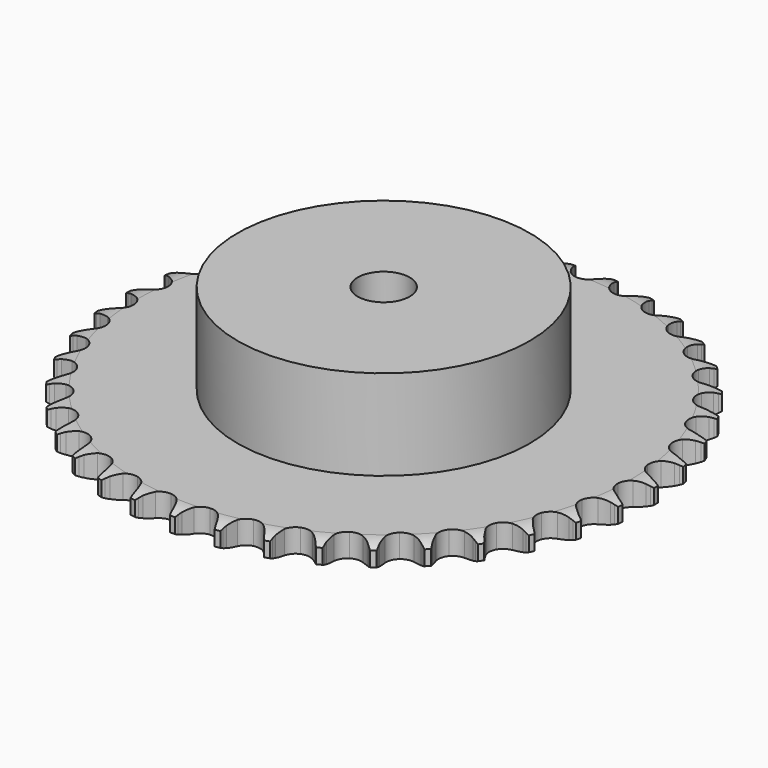
from build123d import *

# Parameters (mm, degrees)
PAD_DEPTH         = 7.2
SKETCH001_R       = 45
PAD001_DEPTH      = 35
SKETCH002_R       = 8
POCKET_DEPTH      = 0.001
POCKET_DEPTH_BACK = 35.001


with BuildPart() as part:
    # Sprocket → Pad (new body)
    with BuildSketch(Plane.XY):
        with BuildLine():
            ThreePointArc((-6.656622, 82.457062), (-5.929777, 81.440918), (-5.398329, 80.310249))
            Line((-5.398329, 80.310249), (-4.983377, 79.168588))
            ThreePointArc((-4.983377, 79.168588), (-4.32707, 77.702452), (-3.466416, 76.346144))
            ThreePointArc((-3.466416, 76.346144), (-1.9406, 75.061463), (0, 74.600386))
            ThreePointArc((0, 74.600386), (1.9406, 75.061463), (3.466416, 76.346144))
            ThreePointArc((3.466416, 76.346144), (4.32707, 77.702452), (4.983377, 79.168588))
            Line((4.983377, 79.168588), (5.398329, 80.310249))
            ThreePointArc((5.398329, 80.310249), (5.929777, 81.440918), (6.656622, 82.457062))
            ThreePointArc((6.656622, 82.457062), (7.211054, 81.337483), (7.554248, 80.136205))
            Line((7.554248, 80.136205), (7.780691, 78.942766))
            ThreePointArc((7.780691, 78.942766), (8.193314, 77.390336), (8.825256, 75.913534))
            ThreePointArc((8.825256, 75.913534), (10.125235, 74.400731), (11.966743, 73.63433))
            ThreePointArc((11.966743, 73.63433), (13.956175, 73.778143), (15.66831, 74.80143))
            Line((15.66831, 74.80143), (17.618378, 77.343986))
            ThreePointArc((17.618378, 77.343986), (17.900249, 77.88224), (18.211092, 78.404299))
            ThreePointArc((18.211092, 78.404299), (18.91703, 79.435077), (19.797464, 80.321468))
            ThreePointArc((19.797464, 80.321468), (20.165122, 79.12745), (20.311173, 77.886676))
            Line((20.311173, 77.886676), (20.343243, 76.672367))
            ThreePointArc((20.343243, 76.672367), (20.501496, 75.073852), (20.888358, 73.514803))
            ThreePointArc((20.888358, 73.514803), (21.928833, 71.813059), (23.623554, 70.761184))
            ThreePointArc((23.623554, 70.761184), (25.610293, 70.584007), (27.464403, 71.319397))
            Line((27.464403, 71.319397), (29.797073, 73.516215))
            ThreePointArc((29.797073, 73.516215), (30.161635, 74.002284), (30.552197, 74.467719))
            ThreePointArc((30.552197, 74.467719), (31.414342, 75.371908), (32.425561, 76.105589))
            ThreePointArc((32.425561, 76.105589), (32.596925, 74.868057), (32.54205, 73.619922))
            Line((32.54205, 73.619922), (32.378916, 72.416194))
            ThreePointArc((32.378916, 72.416194), (32.2787, 70.812994), (32.410463, 69.212078))
            ThreePointArc((32.410463, 69.212078), (33.164485, 67.365467), (34.668528, 66.055361))
            ThreePointArc((34.668528, 66.055361), (36.601117, 65.561783), (38.549182, 65.99023))
            Line((38.549182, 65.99023), (41.204039, 67.784413))
            ThreePointArc((41.204039, 67.784413), (41.641851, 68.205707), (42.102016, 68.602465))
            ThreePointArc((42.102016, 68.602465), (43.098039, 69.356647), (44.213854, 69.918616))
            ThreePointArc((44.213854, 69.918616), (44.184484, 68.669621), (43.930105, 67.446452))
            Line((43.930105, 67.446452), (43.575992, 66.28448))
            ThreePointArc((43.575992, 66.28448), (43.219902, 64.718117), (43.093154, 63.116796))
            ThreePointArc((43.093154, 63.116796), (43.541194, 61.173144), (44.815605, 59.638738))
            ThreePointArc((44.815605, 59.638738), (46.643992, 58.841543), (48.635557, 58.95195))
            Line((48.635557, 58.95195), (51.543842, 60.29703))
            ThreePointArc((51.543842, 60.29703), (52.043565, 60.642638), (52.561416, 60.960443))
            ThreePointArc((52.561416, 60.960443), (53.665519, 61.545085), (54.857031, 61.920787))
            ThreePointArc((54.857031, 61.920787), (54.627688, 60.692678), (54.180394, 59.526153))
            Line((54.180394, 59.526153), (53.644473, 58.436033))
            ThreePointArc((53.644473, 58.436033), (53.041732, 56.947074), (52.659755, 55.386822))
            ThreePointArc((52.659755, 55.386822), (52.79021, 53.396469), (53.801981, 51.677504))
            ThreePointArc((53.801981, 51.677504), (55.478812, 50.597338), (57.462297, 50.386846))
            Line((57.462297, 50.386846), (60.548686, 51.247985))
            ThreePointArc((60.548686, 51.247985), (61.097378, 51.508957), (61.659502, 51.739577))
            ThreePointArc((61.659502, 51.739577), (62.843091, 52.139538), (64.079439, 52.319243))
            ThreePointArc((64.079439, 52.319243), (63.656064, 51.143826), (63.027438, 50.064159))
            Line((63.027438, 50.064159), (62.32359, 49.074123))
            ThreePointArc((62.32359, 49.074123), (61.489808, 47.701133), (60.862496, 46.222358))
            ThreePointArc((60.862496, 46.222358), (60.671986, 44.236854), (61.394914, 42.377849))
            ThreePointArc((61.394914, 42.377849), (62.87676, 41.042688), (64.800794, 40.516748))
            Line((64.800794, 40.516748), (67.985352, 40.871645))
            ThreePointArc((67.985352, 40.871645), (68.568801, 41.041221), (69.160639, 41.178683))
            ThreePointArc((69.160639, 41.178683), (70.393059, 41.383604), (71.642224, 41.362657))
            ThreePointArc((71.642224, 41.362657), (71.035782, 40.270376), (70.242105, 39.305529))
            Line((70.242105, 39.305529), (69.388559, 38.441219))
            ThreePointArc((69.388559, 38.441219), (68.345331, 37.219757), (67.48893, 35.86076))
            ThreePointArc((67.48893, 35.86076), (66.98239, 33.931527), (67.397751, 31.98063))
            ThreePointArc((67.397751, 31.98063), (68.646232, 30.425055), (70.460984, 29.597289))
            Line((70.460984, 29.597289), (73.661232, 29.436751))
            ThreePointArc((73.661232, 29.436751), (74.264328, 29.510539), (74.870553, 29.551283))
            ThreePointArc((74.870553, 29.551283), (76.119885, 29.555856), (77.349513, 29.334801))
            ThreePointArc((77.349513, 29.334801), (76.575709, 28.353944), (75.637539, 27.528907))
            Line((75.637539, 27.528907), (74.6564, 26.812708))
            ThreePointArc((74.6564, 26.812708), (73.430746, 25.774408), (72.367437, 24.570386))
            ThreePointArc((72.367437, 24.570386), (71.557986, 22.747392), (71.655021, 20.75513))
            ThreePointArc((71.655021, 20.75513), (72.637804, 19.019428), (74.296272, 17.911275))
            Line((74.296272, 17.911275), (77.429325, 17.23946))
            ThreePointArc((77.429325, 17.23946), (78.036447, 17.215549), (78.641358, 17.158521))
            ThreePointArc((78.641358, 17.158521), (79.875245, 16.962627), (81.05349, 16.547188))
            ThreePointArc((81.05349, 16.547188), (80.132367, 15.703161), (79.074, 15.0393))
            Line((79.074, 15.0393), (77.99068, 14.489762))
            ThreePointArc((77.99068, 14.489762), (76.614343, 13.661517), (75.371665, 12.643653))
            ThreePointArc((75.371665, 12.643653), (74.280267, 10.974111), (74.056465, 8.992083))
            ThreePointArc((74.056465, 8.992083), (74.748094, 7.121208), (76.207325, 5.761368))
            Line((76.207325, 5.761368), (79.19204, 4.595676))
            ThreePointArc((79.19204, 4.595676), (79.787464, 4.474686), (80.375393, 4.321362))
            ThreePointArc((80.375393, 4.321362), (81.561878, 3.930075), (82.658224, 3.331013))
            ThreePointArc((82.658224, 3.331013), (81.613638, 2.645673), (80.462486, 2.160183))
            Line((80.462486, 2.160183), (79.305043, 1.791538))
            ThreePointArc((79.305043, 1.791538), (77.813669, 1.194799), (76.423806, 0.389456))
            ThreePointArc((76.423806, 0.389456), (75.078728, -1.083394), (74.539884, -3.003855))
            ThreePointArc((74.539884, -3.003855), (74.922448, -4.961447), (76.144649, -6.537754))
            Line((76.144649, -6.537754), (78.903722, -8.167133))
            ThreePointArc((78.903722, -8.167133), (79.472028, -8.382069), (80.027748, -8.627719))
            ThreePointArc((80.027748, -8.627719), (81.136102, -9.204264), (82.122154, -9.971435))
            ThreePointArc((82.122154, -9.971435), (80.981158, -10.480336), (79.767035, -10.774881))
            Line((79.767035, -10.774881), (78.565446, -10.953085))
            ThreePointArc((78.565446, -10.953085), (76.997661, -11.302864), (75.496611, -11.874828))
            ThreePointArc((75.496611, -11.874828), (73.93269, -13.112839), (73.09276, -14.921994))
            ThreePointArc((73.09276, -14.921994), (73.15635, -16.915603), (74.109866, -18.667553))
            Line((74.109866, -18.667553), (76.571839, -20.718418))
            ThreePointArc((76.571839, -20.718418), (77.098307, -21.021734), (77.607426, -21.353346))
            ThreePointArc((77.607426, -21.353346), (78.608943, -22.100217), (79.459163, -23.015627))
            ThreePointArc((79.459163, -23.015627), (78.25131, -23.334909), (77.005661, -23.430881))
            Line((77.005661, -23.430881), (75.791046, -23.41403))
            ThreePointArc((75.791046, -23.41403), (74.187455, -23.507788), (72.614093, -23.83156))
            ThreePointArc((72.614093, -23.83156), (70.871833, -24.802669), (69.752572, -26.453661))
            ThreePointArc((69.752572, -26.453661), (69.495541, -28.431654), (70.155677, -30.313872))
            Line((70.155677, -30.313872), (72.256786, -32.733107))
            ThreePointArc((72.256786, -32.733107), (72.727781, -33.116946), (73.177113, -33.525932))
            ThreePointArc((73.177113, -33.525932), (74.045853, -34.423786), (74.738222, -35.463727))
            ThreePointArc((74.738222, -35.463727), (73.494793, -35.585121), (72.24988, -35.480034))
            Line((72.24988, -35.480034), (71.053697, -35.268563))
            ThreePointArc((71.053697, -35.268563), (69.455832, -35.103873), (67.850909, -35.171068))
            ThreePointArc((67.850909, -35.171068), (65.975434, -35.850122), (64.605829, -37.300193))
            ThreePointArc((64.605829, -37.300193), (64.034834, -39.211341), (64.384492, -41.175077))
            Line((64.384492, -41.175077), (66.07032, -43.900025))
            ThreePointArc((66.07032, -43.900025), (66.473644, -44.354447), (66.851551, -44.830214))
            ThreePointArc((66.851551, -44.830214), (67.565016, -45.855797), (68.081599, -46.993335))
            ThreePointArc((68.081599, -46.993335), (66.8348, -46.913697), (65.622865, -46.610273))
            Line((65.622865, -46.610273), (64.476095, -46.209659))
            ThreePointArc((64.476095, -46.209659), (62.92534, -45.790786), (61.330421, -45.599663))
            ThreePointArc((61.330421, -45.599663), (59.370305, -45.969077), (57.785829, -47.180669))
            ThreePointArc((57.785829, -47.180669), (56.915658, -48.975474), (56.945783, -50.969869))
            Line((56.945783, -50.969869), (58.172667, -53.929956))
            ThreePointArc((58.172667, -53.929956), (58.497874, -54.443191), (58.794569, -54.973418))
            ThreePointArc((58.794569, -54.973418), (59.334279, -56.100167), (59.661699, -57.30584))
            ThreePointArc((59.661699, -57.30584), (58.44382, -57.027233), (57.296253, -56.53333))
            Line((57.296253, -56.53333), (56.228596, -55.953949))
            ThreePointArc((56.228596, -55.953949), (54.765115, -55.291742), (53.221508, -54.84725))
            ThreePointArc((53.221508, -54.84725), (51.227517, -54.897456), (49.469206, -55.83919))
            ThreePointArc((49.469206, -55.83919), (48.322397, -57.471168), (48.032208, -59.444569))
            Line((48.032208, -59.444569), (48.768373, -62.56313))
            ThreePointArc((48.768373, -62.56313), (49.00704, -63.121884), (49.214838, -63.692839))
            ThreePointArc((49.214838, -63.692839), (49.566816, -64.891573), (49.696593, -66.134154))
            ThreePointArc((49.696593, -66.134154), (48.539177, -65.663793), (47.485698, -64.992203))
            Line((47.485698, -64.992203), (46.524806, -64.249061))
            ThreePointArc((46.524806, -64.249061), (45.186502, -63.360671), (43.734186, -62.674323))
            ThreePointArc((43.734186, -62.674323), (41.757963, -62.40402), (39.871357, -63.051506))
            ThreePointArc((39.871357, -63.051506), (38.477611, -64.478389), (37.874624, -66.379685))
            Line((37.874624, -66.379685), (38.101004, -69.575951))
            ThreePointArc((38.101004, -69.575951), (38.246949, -70.165755), (38.360469, -70.762648))
            ThreePointArc((38.360469, -70.762648), (38.515599, -72.00232), (38.444371, -73.249628))
            ThreePointArc((38.444371, -73.249628), (37.377394, -72.599696), (36.445288, -71.767813))
            Line((36.445288, -71.767813), (35.616048, -70.880156))
            ThreePointArc((35.616048, -70.880156), (34.437582, -69.788591), (33.114171, -68.878164))
            ThreePointArc((33.114171, -68.878164), (31.206899, -68.294352), (29.24086, -68.630821))
            ThreePointArc((29.24086, -68.630821), (27.636275, -69.815653), (26.736108, -71.595603))
            Line((26.736108, -71.595603), (26.446839, -74.786791))
            ThreePointArc((26.446839, -74.786791), (26.496283, -75.392369), (26.512584, -75.999743))
            ThreePointArc((26.512584, -75.999743), (26.466847, -77.248246), (26.196459, -78.467976))
            ThreePointArc((26.196459, -78.467976), (25.247556, -77.655305), (24.460964, -76.684674))
            Line((24.460964, -76.684674), (23.784853, -75.675493))
            ThreePointArc((23.784853, -75.675493), (22.796747, -74.409024), (21.636517, -73.298096))
            ThreePointArc((21.636517, -73.298096), (19.847594, -72.415897), (17.853041, -72.432634))
            ThreePointArc((17.853041, -72.432634), (16.079174, -73.344729), (14.90514, -74.957232))
            Line((14.90514, -74.957232), (14.107714, -78.060693))
            ThreePointArc((14.107714, -78.060693), (14.059376, -78.66636), (13.978037, -79.268483))
            ThreePointArc((13.978037, -79.268483), (13.732619, -80.493482), (13.270074, -81.654044))
            ThreePointArc((13.270074, -81.654044), (12.46382, -80.699682), (11.843114, -79.615442))
            Line((11.843114, -79.615442), (11.337642, -78.510874))
            ThreePointArc((11.337642, -78.510874), (10.565489, -77.102302), (9.598488, -75.819647))
            ThreePointArc((9.598488, -75.819647), (7.974246, -74.661908), (6.002837, -74.358479))
            ThreePointArc((6.002837, -74.358479), (4.105631, -74.974215), (2.688136, -76.377508))
            Line((2.688136, -76.377508), (1.403207, -79.312864))
            ThreePointArc((1.403207, -79.312864), (1.25834, -79.902934), (1.081466, -80.484212))
            ThreePointArc((1.081466, -80.484212), (0.642722, -81.653979), (0, -82.725315))
            ThreePointArc((0, -82.725315), (-0.642722, -81.653979), (-1.081466, -80.484212))
            Line((-1.081466, -80.484212), (-1.403207, -79.312864))
            ThreePointArc((-1.403207, -79.312864), (-1.939411, -77.798671), (-2.688136, -76.377508))
            ThreePointArc((-2.688136, -76.377508), (-4.105631, -74.974215), (-6.002837, -74.358479))
            ThreePointArc((-6.002837, -74.358479), (-7.974246, -74.661908), (-9.598488, -75.819647))
            Line((-9.598488, -75.819647), (-11.337642, -78.510874))
            ThreePointArc((-11.337642, -78.510874), (-11.575287, -79.070064), (-11.843114, -79.615442))
            ThreePointArc((-11.843114, -79.615442), (-12.46382, -80.699682), (-13.270074, -81.654044))
            ThreePointArc((-13.270074, -81.654044), (-13.732619, -80.493482), (-13.978037, -79.268483))
            Line((-13.978037, -79.268483), (-14.107714, -78.060693))
            ThreePointArc((-14.107714, -78.060693), (-14.39408, -76.480096), (-14.90514, -74.957232))
            ThreePointArc((-14.90514, -74.957232), (-16.079174, -73.344729), (-17.853041, -72.432634))
            ThreePointArc((-17.853041, -72.432634), (-19.847594, -72.415897), (-21.636517, -73.298096))
            Line((-21.636517, -73.298096), (-23.784853, -75.675493))
            ThreePointArc((-23.784853, -75.675493), (-24.109121, -76.18932), (-24.460964, -76.684674))
            ThreePointArc((-24.460964, -76.684674), (-25.247556, -77.655305), (-26.196459, -78.467976))
            ThreePointArc((-26.196459, -78.467976), (-26.466847, -77.248246), (-26.512584, -75.999743))
            Line((-26.512584, -75.999743), (-26.446839, -74.786791))
            ThreePointArc((-26.446839, -74.786791), (-26.475951, -73.180725), (-26.736108, -71.595603))
            ThreePointArc((-26.736108, -71.595603), (-27.636275, -69.815653), (-29.24086, -68.630821))
            ThreePointArc((-29.24086, -68.630821), (-31.206899, -68.294352), (-33.114171, -68.878164))
            Line((-33.114171, -68.878164), (-35.616048, -70.880156))
            ThreePointArc((-35.616048, -70.880156), (-36.01854, -71.335314), (-36.445288, -71.767813))
            ThreePointArc((-36.445288, -71.767813), (-37.377394, -72.599696), (-38.444371, -73.249628))
            ThreePointArc((-38.444371, -73.249628), (-38.515599, -72.00232), (-38.360469, -70.762648))
            Line((-38.360469, -70.762648), (-38.101004, -69.575951))
            ThreePointArc((-38.101004, -69.575951), (-37.872108, -67.986013), (-37.874624, -66.379685))
            ThreePointArc((-37.874624, -66.379685), (-38.477611, -64.478389), (-39.871357, -63.051506))
            ThreePointArc((-39.871357, -63.051506), (-41.757963, -62.40402), (-43.734186, -62.674323))
            Line((-43.734186, -62.674323), (-46.524806, -64.249061))
            ThreePointArc((-46.524806, -64.249061), (-46.995099, -64.63376), (-47.485698, -64.992203))
            ThreePointArc((-47.485698, -64.992203), (-48.539177, -65.663793), (-49.696593, -66.134154))
            ThreePointArc((-49.696593, -66.134154), (-49.566816, -64.891573), (-49.214838, -63.692839))
            Line((-49.214838, -63.692839), (-48.768373, -62.56313))
            ThreePointArc((-48.768373, -62.56313), (-48.287398, -61.030499), (-48.032208, -59.444569))
            ThreePointArc((-48.032208, -59.444569), (-48.322397, -57.471168), (-49.469206, -55.83919))
            ThreePointArc((-49.469206, -55.83919), (-51.227517, -54.897456), (-53.221508, -54.84725))
            Line((-53.221508, -54.84725), (-56.228596, -55.953949))
            ThreePointArc((-56.228596, -55.953949), (-56.754509, -56.258226), (-57.296253, -56.53333))
            ThreePointArc((-57.296253, -56.53333), (-58.44382, -57.027233), (-59.661699, -57.30584))
            ThreePointArc((-59.661699, -57.30584), (-59.334279, -56.100167), (-58.794569, -54.973418))
            Line((-58.794569, -54.973418), (-58.172667, -53.929956))
            ThreePointArc((-58.172667, -53.929956), (-57.452069, -52.494326), (-56.945783, -50.969869))
            ThreePointArc((-56.945783, -50.969869), (-56.915658, -48.975474), (-57.785829, -47.180669))
            ThreePointArc((-57.785829, -47.180669), (-59.370305, -45.969077), (-61.330421, -45.599663))
            Line((-61.330421, -45.599663), (-64.476095, -46.209659))
            ThreePointArc((-64.476095, -46.209659), (-65.044007, -46.425633), (-65.622865, -46.610273))
            ThreePointArc((-65.622865, -46.610273), (-66.8348, -46.913697), (-68.081599, -46.993335))
            ThreePointArc((-68.081599, -46.993335), (-67.565016, -45.855797), (-66.851551, -44.830214))
            Line((-66.851551, -44.830214), (-66.07032, -43.900025))
            ThreePointArc((-66.07032, -43.900025), (-65.128762, -42.598579), (-64.384492, -41.175077))
            ThreePointArc((-64.384492, -41.175077), (-64.034834, -39.211341), (-64.605829, -37.300193))
            ThreePointArc((-64.605829, -37.300193), (-65.975434, -35.850122), (-67.850909, -35.171068))
            Line((-67.850909, -35.171068), (-71.053697, -35.268563))
            ThreePointArc((-71.053697, -35.268563), (-71.648899, -35.390641), (-72.24988, -35.480034))
            ThreePointArc((-72.24988, -35.480034), (-73.494793, -35.585121), (-74.738222, -35.463727))
            ThreePointArc((-74.738222, -35.463727), (-74.045853, -34.423786), (-73.177113, -33.525932))
            Line((-73.177113, -33.525932), (-72.256786, -32.733107))
            ThreePointArc((-72.256786, -32.733107), (-71.118654, -31.59955), (-70.155677, -30.313872))
            ThreePointArc((-70.155677, -30.313872), (-69.495541, -28.431654), (-69.752572, -26.453661))
            ThreePointArc((-69.752572, -26.453661), (-70.871833, -24.802669), (-72.614093, -23.83156))
            Line((-72.614093, -23.83156), (-75.791046, -23.41403))
            ThreePointArc((-75.791046, -23.41403), (-76.398123, -23.43905), (-77.005661, -23.430881))
            ThreePointArc((-77.005661, -23.430881), (-78.25131, -23.334909), (-79.459163, -23.015627))
            ThreePointArc((-79.459163, -23.015627), (-78.608943, -22.100217), (-77.607426, -21.353346))
            Line((-77.607426, -21.353346), (-76.571839, -20.718418))
            ThreePointArc((-76.571839, -20.718418), (-75.266611, -19.78211), (-74.109866, -18.667553))
            ThreePointArc((-74.109866, -18.667553), (-73.15635, -16.915603), (-73.09276, -14.921994))
            ThreePointArc((-73.09276, -14.921994), (-73.93269, -13.112839), (-75.496611, -11.874828))
            Line((-75.496611, -11.874828), (-78.565446, -10.953085))
            ThreePointArc((-78.565446, -10.953085), (-79.168675, -10.880399), (-79.767035, -10.774881))
            ThreePointArc((-79.767035, -10.774881), (-80.981158, -10.480336), (-82.122154, -9.971435))
            ThreePointArc((-82.122154, -9.971435), (-81.136102, -9.204264), (-80.027748, -8.627719))
            Line((-80.027748, -8.627719), (-78.903722, -8.167133))
            ThreePointArc((-78.903722, -8.167133), (-77.465201, -7.452323), (-76.144649, -6.537754))
            ThreePointArc((-76.144649, -6.537754), (-74.922448, -4.961447), (-74.539884, -3.003855))
            ThreePointArc((-74.539884, -3.003855), (-75.078728, -1.083394), (-76.423806, 0.389456))
            Line((-76.423806, 0.389456), (-79.305043, 1.791538))
            ThreePointArc((-79.305043, 1.791538), (-79.888801, 1.960048), (-80.462486, 2.160183))
            ThreePointArc((-80.462486, 2.160183), (-81.613638, 2.645673), (-82.658224, 3.331013))
            ThreePointArc((-82.658224, 3.331013), (-81.561878, 3.930075), (-80.375393, 4.321362))
            Line((-80.375393, 4.321362), (-79.19204, 4.595676))
            ThreePointArc((-79.19204, 4.595676), (-77.657484, 5.070475), (-76.207325, 5.761368))
            ThreePointArc((-76.207325, 5.761368), (-74.748094, 7.121208), (-74.056465, 8.992083))
            ThreePointArc((-74.056465, 8.992083), (-74.280267, 10.974111), (-75.371665, 12.643653))
            Line((-75.371665, 12.643653), (-77.99068, 14.489762))
            ThreePointArc((-77.99068, 14.489762), (-78.539848, 14.74973), (-79.074, 15.0393))
            ThreePointArc((-79.074, 15.0393), (-80.132367, 15.703161), (-81.05349, 16.547188))
            ThreePointArc((-81.05349, 16.547188), (-79.875245, 16.962627), (-78.641358, 17.158521))
            Line((-78.641358, 17.158521), (-77.429325, 17.23946))
            ThreePointArc((-77.429325, 17.23946), (-75.838479, 17.46195), (-74.296272, 17.911275))
            ThreePointArc((-74.296272, 17.911275), (-72.637804, 19.019428), (-71.655021, 20.75513))
            ThreePointArc((-71.655021, 20.75513), (-71.557986, 22.747392), (-72.367437, 24.570386))
            Line((-72.367437, 24.570386), (-74.6564, 26.812708))
            ThreePointArc((-74.6564, 26.812708), (-75.156754, 27.157403), (-75.637539, 27.528907))
            ThreePointArc((-75.637539, 27.528907), (-76.575709, 28.353944), (-77.349513, 29.334801))
            ThreePointArc((-77.349513, 29.334801), (-76.119885, 29.555856), (-74.870553, 29.551283))
            Line((-74.870553, 29.551283), (-73.661232, 29.436751))
            ThreePointArc((-73.661232, 29.436751), (-72.055297, 29.40117), (-70.460984, 29.597289))
            ThreePointArc((-70.460984, 29.597289), (-68.646232, 30.425055), (-67.397751, 31.98063))
            ThreePointArc((-67.397751, 31.98063), (-66.98239, 33.931527), (-67.48893, 35.86076))
            Line((-67.48893, 35.86076), (-69.388559, 38.441219))
            ThreePointArc((-69.388559, 38.441219), (-69.82714, 38.861713), (-70.242105, 39.305529))
            ThreePointArc((-70.242105, 39.305529), (-71.035782, 40.270376), (-71.642224, 41.362657))
            ThreePointArc((-71.642224, 41.362657), (-70.393059, 41.383604), (-69.160639, 41.178683))
            Line((-69.160639, 41.178683), (-67.985352, 40.871645))
            ThreePointArc((-67.985352, 40.871645), (-66.40592, 40.578915), (-64.800794, 40.516748))
            ThreePointArc((-64.800794, 40.516748), (-62.87676, 41.042688), (-61.394914, 42.377849))
            ThreePointArc((-61.394914, 42.377849), (-60.671986, 44.236854), (-60.862496, 46.222358))
            Line((-60.862496, 46.222358), (-62.32359, 49.074123))
            ThreePointArc((-62.32359, 49.074123), (-62.68904, 49.559525), (-63.027438, 50.064159))
            ThreePointArc((-63.027438, 50.064159), (-63.656064, 51.143826), (-64.079439, 52.319243))
            ThreePointArc((-64.079439, 52.319243), (-62.843091, 52.139538), (-61.659502, 51.739577))
            Line((-61.659502, 51.739577), (-60.548686, 51.247985))
            ThreePointArc((-60.548686, 51.247985), (-59.036665, 50.705687), (-57.462297, 50.386846))
            ThreePointArc((-57.462297, 50.386846), (-55.478812, 50.597338), (-53.801981, 51.677504))
            ThreePointArc((-53.801981, 51.677504), (-52.79021, 53.396469), (-52.659755, 55.386822))
            Line((-52.659755, 55.386822), (-53.644473, 58.436033))
            ThreePointArc((-53.644473, 58.436033), (-53.927327, 58.973771), (-54.180394, 59.526153))
            ThreePointArc((-54.180394, 59.526153), (-54.627688, 60.692678), (-54.857031, 61.920787))
            ThreePointArc((-54.857031, 61.920787), (-53.665519, 61.545085), (-52.561416, 60.960443))
            Line((-52.561416, 60.960443), (-51.543842, 60.29703))
            ThreePointArc((-51.543842, 60.29703), (-50.138392, 59.519209), (-48.635557, 58.95195))
            ThreePointArc((-48.635557, 58.95195), (-46.643992, 58.841543), (-44.815605, 59.638738))
            ThreePointArc((-44.815605, 59.638738), (-43.541194, 61.173144), (-43.093154, 63.116796))
            Line((-43.093154, 63.116796), (-43.575992, 66.28448))
            ThreePointArc((-43.575992, 66.28448), (-43.768924, 66.860628), (-43.930105, 67.446452))
            ThreePointArc((-43.930105, 67.446452), (-44.184484, 68.669621), (-44.213854, 69.918616))
            ThreePointArc((-44.213854, 69.918616), (-43.098039, 69.356647), (-42.102016, 68.602465))
            Line((-42.102016, 68.602465), (-41.204039, 67.784413))
            ThreePointArc((-41.204039, 67.784413), (-39.94156, 66.791214), (-38.549182, 65.99023))
            ThreePointArc((-38.549182, 65.99023), (-36.601117, 65.561783), (-34.668528, 66.055361))
            ThreePointArc((-34.668528, 66.055361), (-33.164485, 67.365467), (-32.410463, 69.212078))
            Line((-32.410463, 69.212078), (-32.378916, 72.416194))
            ThreePointArc((-32.378916, 72.416194), (-32.476929, 73.015829), (-32.54205, 73.619922))
            ThreePointArc((-32.54205, 73.619922), (-32.596925, 74.868057), (-32.425561, 76.105589))
            ThreePointArc((-32.425561, 76.105589), (-31.414342, 75.371908), (-30.552197, 74.467719))
            Line((-30.552197, 74.467719), (-29.797073, 73.516215))
            ThreePointArc((-29.797073, 73.516215), (-28.710263, 72.333363), (-27.464403, 71.319397))
            ThreePointArc((-27.464403, 71.319397), (-25.610293, 70.584007), (-23.623554, 70.761184))
            ThreePointArc((-23.623554, 70.761184), (-21.928833, 71.813059), (-20.888358, 73.514803))
            Line((-20.888358, 73.514803), (-20.343243, 76.672367))
            ThreePointArc((-20.343243, 76.672367), (-20.343798, 77.279959), (-20.311173, 77.886676))
            ThreePointArc((-20.311173, 77.886676), (-20.165122, 79.12745), (-19.797464, 80.321468))
            ThreePointArc((-19.797464, 80.321468), (-18.91703, 79.435077), (-18.211092, 78.404299))
            Line((-18.211092, 78.404299), (-17.618378, 77.343986))
            ThreePointArc((-17.618378, 77.343986), (-16.735386, 76.002115), (-15.66831, 74.80143))
            ThreePointArc((-15.66831, 74.80143), (-13.956175, 73.778143), (-11.966743, 73.63433))
            ThreePointArc((-11.966743, 73.63433), (-10.125235, 74.400731), (-8.825256, 75.913534))
            Line((-8.825256, 75.913534), (-7.780691, 78.942766))
            ThreePointArc((-7.780691, 78.942766), (-7.683774, 79.542579), (-7.554248, 80.136205))
            ThreePointArc((-7.554248, 80.136205), (-7.211054, 81.337483), (-6.656622, 82.457062))
        make_face()
    extrude(amount=PAD_DEPTH)

    # Sketch → Groove (revolve, cut)
    with BuildSketch(Plane.XZ):
        with BuildLine():
            Line((75.683431, 0), (81.35, 0))
            Line((87.016569, 0), (81.35, 0))
            Line((87.016569, 7.2), (87.016569, 0))
            Line((81.35, 7.2), (87.016569, 7.2))
            Line((75.683431, 7.2), (81.35, 7.2))
            ThreePointArc((81.35, 5.9), (78.59032, 6.870833), (75.683431, 7.2))
            Line((81.35, 1.3), (81.35, 5.9))
            ThreePointArc((75.683431, 0), (78.59032, 0.329167), (81.35, 1.3))
        make_face()
    revolve(axis=Axis((0, 0, 0), (0, 0, 1)), mode=Mode.SUBTRACT)

    # Sketch001 → Pad001 (join)
    with BuildSketch(Plane.XY):
        Circle(SKETCH001_R)
    extrude(amount=PAD001_DEPTH)

    # Sketch002 → Pocket (cut, two sides)
    with BuildSketch(Plane.XY) as pocket_sk:
        Circle(SKETCH002_R)
    extrude(amount=-POCKET_DEPTH, mode=Mode.SUBTRACT)
    extrude(pocket_sk.sketch, amount=POCKET_DEPTH_BACK, mode=Mode.SUBTRACT)


solid = part.part
